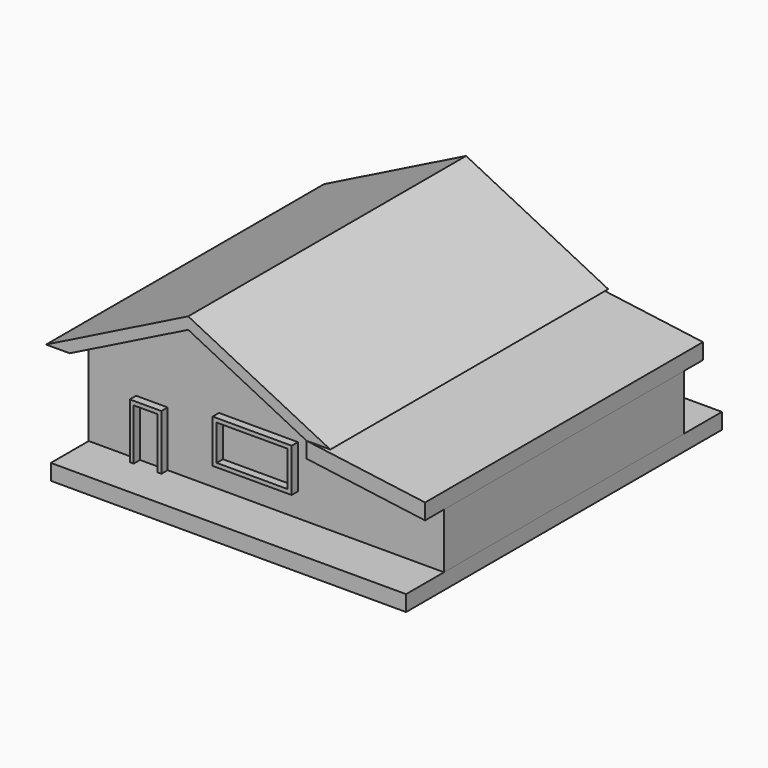
from build123d import *

# Parameters (mm, degrees)
F0_W     = 254
F0_H     = 139.7
F0_W_2   = 76.2
F0_H_2   = 165.1
F0_W_3   = 228.6
F0_H_3   = 114.3
F1_DEPTH = 482.6
F2_DEPTH = 508
F0_W_4   = 381
F0_H_4   = 50.8
F3_DEPTH = 558.8
F4_DEPTH = 635


with BuildPart() as f1:
    # F0 (on Front) → F1 (new body, symmetric)
    with BuildSketch(Plane.XZ):
        Polygon((-381, 0), (0, 0), (0, 190.5), align=None)
        Polygon((0, 190.5), (0, 0), (381, 0), align=None)
        Polygon((381, 0), (0, 0), (-381, 0), (-381, -279.4), (-228.6, -279.4), (-228.6, -101.6), (-127, -101.6), (-127, -279.4), (381, -279.4), (381, -50.8), align=None)
        with Locations((165.1, -133.35)):
            Rectangle(F0_W, F0_H, mode=Mode.SUBTRACT)
        Polygon((762, -101.648802), (381, -50.8), (381, -279.4), (762, -279.4), align=None)
        with Locations((-177.8, -196.85)):
            Rectangle(F0_W_2, F0_H_2)
        with Locations((165.1, -133.35)):
            Rectangle(F0_W_3, F0_H_3)
    extrude(amount=F1_DEPTH, both=True)


with BuildPart() as f2:
    # F0 (on Front) → F2 (new body, symmetric)
    with BuildSketch(Plane.XZ):
        Polygon((-228.6, -101.6), (-228.6, -279.4), (-215.9, -279.4), (-215.9, -114.3), (-139.7, -114.3), (-139.7, -279.4), (-127, -279.4), (-127, -101.6), align=None)
        with Locations((165.1, -133.35)):
            Rectangle(F0_W, F0_H)
        with Locations((165.1, -133.35)):
            Rectangle(F0_W_3, F0_H_3, mode=Mode.SUBTRACT)
    extrude(amount=F2_DEPTH, both=True)


with BuildPart() as f3:
    # F0 (on Front) → F3 (new body, symmetric)
    with BuildSketch(Plane.XZ):
        Polygon((-457.2, 0), (-381, 0), (0, 190.5), (0, 228.6), align=None)
        Polygon((762, -50.8), (381, 0), (381, -50.8), (762, -101.648802), align=None)
        with Locations((571.5, -304.8)):
            Rectangle(F0_W_4, F0_H_4)
        Polygon((-228.6, -279.4), (-381, -279.4), (-381, -330.2), (381, -330.2), (381, -279.4), (-127, -279.4), (-139.7, -279.4), (-215.9, -279.4), align=None)
        Polygon((0, 190.5), (381, 0), (457.2, 0), (0, 228.6), align=None)
    extrude(amount=F3_DEPTH, both=True)


with BuildPart() as f4:
    # F0 (on Front) → F4 (new body, symmetric)
    with BuildSketch(Plane.XZ):
        Polygon((-228.6, -279.4), (-381, -279.4), (-381, -330.2), (381, -330.2), (381, -279.4), (-127, -279.4), (-139.7, -279.4), (-215.9, -279.4), align=None)
        with Locations((571.5, -304.8)):
            Rectangle(F0_W_4, F0_H_4)
    extrude(amount=F4_DEPTH, both=True)


solid = Compound([f1.part, f2.part, f3.part, f4.part])
